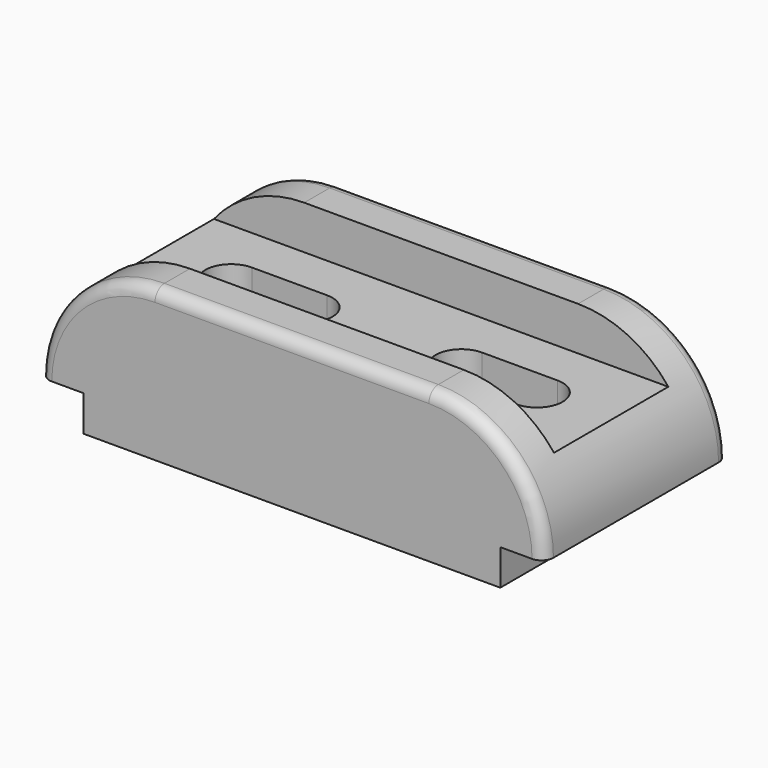
from build123d import *

# Parameters (mm, degrees)
F1_DEPTH = 58
F2_W     = 36
F2_H     = 11
F3_DEPTH = 127.001
F5_DEPTH = 27.001
F6_R     = 3


with BuildPart() as f1:
    # F0 (on Front) → F1 (new body)
    with BuildSketch(Plane.XZ):
        with BuildLine():
            Line((11, 9), (11, 0))
            Line((11, 0), (116, 0))
            Line((116, 0), (116, 9))
            Line((116, 9), (127, 9))
            ThreePointArc((127, 9), (118.506097, 29.506097), (98, 38))
            Line((98, 38), (29, 38))
            ThreePointArc((29, 38), (8.493903, 29.506097), (0, 9))
            Line((0, 9), (11, 9))
        make_face()
    extrude(amount=-F1_DEPTH)

    # F2 (on Right) → F3 (cut, through all)
    with BuildSketch(Plane.YZ):
        with Locations((29, 32.5)):
            Rectangle(F2_W, F2_H)
    extrude(amount=F3_DEPTH, mode=Mode.SUBTRACT)

    # F4 (on face) → F5 (cut, through all)
    with BuildSketch(Plane.XY.offset(27)):
        with BuildLine():
            ThreePointArc((83, 35.5), (76.5, 29), (83, 22.5))
            Line((83, 22.5), (102, 22.5))
            ThreePointArc((102, 22.5), (108.5, 29), (102, 35.5))
            Line((102, 35.5), (83, 35.5))
        make_face()
        with BuildLine():
            ThreePointArc((25, 35.5), (18.5, 29), (25, 22.5))
            Line((25, 22.5), (44, 22.5))
            ThreePointArc((44, 22.5), (50.5, 29), (44, 35.5))
            Line((44, 35.5), (25, 35.5))
        make_face()
    extrude(amount=-F5_DEPTH, mode=Mode.SUBTRACT)

    # F6
    f6_edges = [f1.edges().sort_by_distance(p)[0] for p in [
        (118.506097, 0, 29.506097),
        (118.506097, 58, 29.506097),
    ]]
    fillet(f6_edges, radius=F6_R)


solid = f1.part
